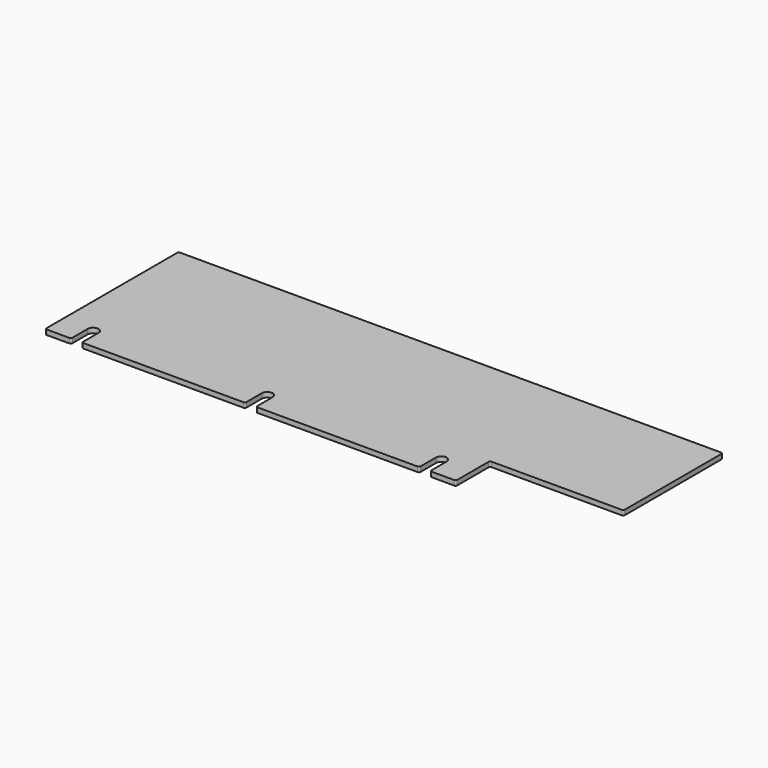
from build123d import *

# Parameters (mm, degrees)
PAD_DEPTH = 3


with BuildPart() as part:
    # Sketch → Pad (new body)
    with BuildSketch(Plane.XY):
        with BuildLine():
            Line((0, 100.6), (0, 1))
            ThreePointArc((0, 1), (0.292893, 0.292893), (1, 0))
            Line((1, 0), (14.748, 0))
            ThreePointArc((14.748, 0), (15.455107, 0.292893), (15.748, 1))
            Line((15.748, 12.7), (15.748, 1))
            ThreePointArc((22.352, 12.7), (19.05, 16.002), (15.748, 12.7))
            Line((22.352, 12.7), (22.352, 1))
            ThreePointArc((22.352, 1), (22.644893, 0.292893), (23.352, 0))
            Line((23.352, 0), (120.948, 0))
            ThreePointArc((120.948, 0), (121.655107, 0.292893), (121.948, 1))
            Line((121.948, 12.7), (121.948, 1))
            ThreePointArc((128.552, 12.7), (125.25, 16.002), (121.948, 12.7))
            Line((128.552, 12.7), (128.552, 1))
            ThreePointArc((128.552, 1), (128.844893, 0.292893), (129.552, 0))
            Line((129.552, 0), (227.148, 0))
            ThreePointArc((227.148, 0), (227.855107, 0.292893), (228.148, 1))
            Line((228.148, 12.7), (228.148, 1))
            ThreePointArc((234.752, 12.7), (231.45, 16.002), (228.148, 12.7))
            Line((234.752, 12.7), (234.752, 1))
            ThreePointArc((234.752, 1), (235.044893, 0.292893), (235.752, 0))
            Line((235.752, 0), (249.5, 0))
            ThreePointArc((249.5, 0), (250.207107, 0.292893), (250.5, 1))
            Line((250.5, 1), (250.5, 24.9))
            ThreePointArc((251.5, 25.9), (250.792893, 25.607107), (250.5, 24.9))
            Line((251.5, 25.9), (330.9999, 25.9))
            ThreePointArc((330.9999, 25.9), (331.707007, 26.192893), (331.9999, 26.9))
            Line((331.9999, 26.9), (331.9999, 100.6))
            ThreePointArc((331.9999, 100.6), (331.707007, 101.307107), (330.9999, 101.6))
            Line((330.9999, 101.6), (1, 101.6))
            ThreePointArc((1, 101.6), (0.292893, 101.307107), (0, 100.6))
        make_face()
    extrude(amount=PAD_DEPTH)


solid = part.part
